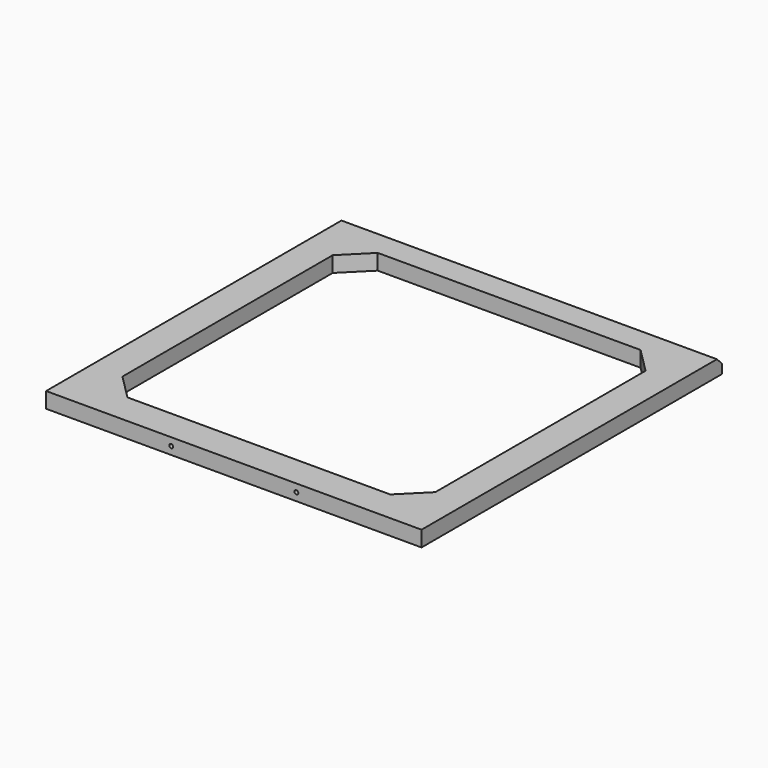
from build123d import *

# Parameters (mm, degrees)
F0_W     = 76.2
F0_H     = 76.2
F0_W_2   = 63.5
F0_H_2   = 63.5
F1_DEPTH = 3.175
F2_SIZE  = 5.08
F3_SIZE  = 5.08
F4_SIZE  = 5.08
F5_SIZE  = 5.08
F6_SIZE  = 1.27
F7_R     = 0.39751
F8_DEPTH = 6.35


with BuildPart() as f1:
    # F0 (on Top) → F1 (new body)
    with BuildSketch(Plane.XY):
        Rectangle(F0_W, F0_H)
        Rectangle(F0_W_2, F0_H_2, mode=Mode.SUBTRACT)
    extrude(amount=F1_DEPTH)

    # F2
    f2_edges = [f1.edges().sort_by_distance(p)[0] for p in [
        (-31.75, 31.75, 1.5875),
    ]]
    chamfer(f2_edges, length=F2_SIZE)

    # F3
    f3_edges = [f1.edges().sort_by_distance(p)[0] for p in [
        (31.75, 31.75, 1.5875),
    ]]
    chamfer(f3_edges, length=F3_SIZE)

    # F4
    f4_edges = [f1.edges().sort_by_distance(p)[0] for p in [
        (-31.75, -31.75, 1.5875),
    ]]
    chamfer(f4_edges, length=F4_SIZE)

    # F5
    f5_edges = [f1.edges().sort_by_distance(p)[0] for p in [
        (31.75, -31.75, 1.5875),
    ]]
    chamfer(f5_edges, length=F5_SIZE)

    # F6
    f6_edges = [f1.edges().sort_by_distance(p)[0] for p in [
        (0, 38.1, 3.175),
    ]]
    chamfer(f6_edges, length=F6_SIZE)

    # F7 (on face) → F8 (cut)
    with BuildSketch(Plane.XZ.offset(38.1)):
        with Locations((-12.7, 1.5875)):
            Circle(F7_R)
        with Locations((12.7, 1.5875)):
            Circle(F7_R)
    extrude(amount=-F8_DEPTH, mode=Mode.SUBTRACT)


solid = f1.part
